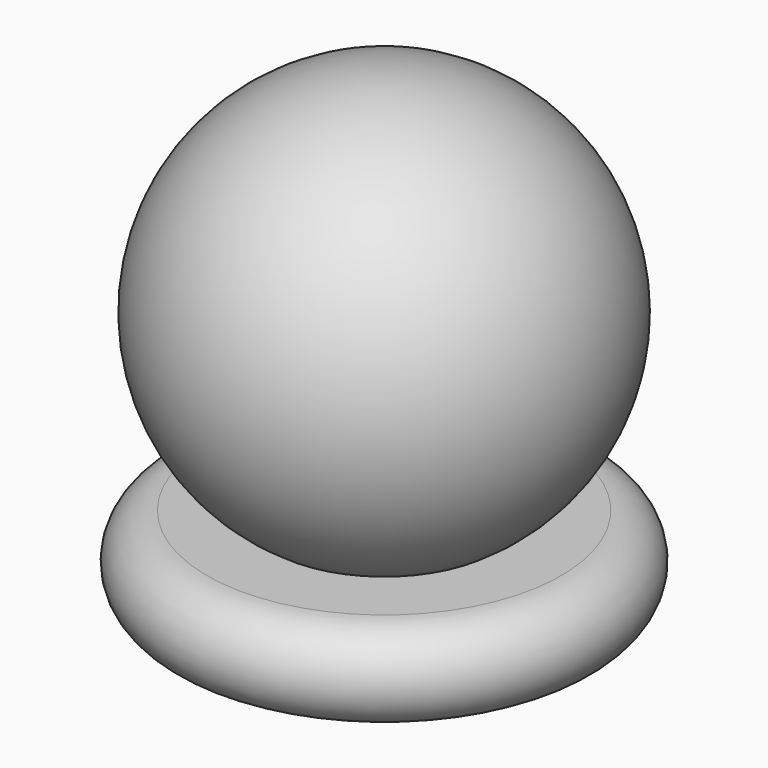
from build123d import *


with BuildPart() as f1:
    # F0 (on Front) → F1 (revolve)
    with BuildSketch(Plane.XZ):
        with BuildLine():
            Line((-4.4410675122, 3.5), (0, 3.5))
            Line((0, 3.5), (0, 18.6132244967))
            ThreePointArc((0, 18.6132244967), (-7.8761131806, 12.7185216609), (-4.4410675122, 3.5))
        make_face()
        with BuildLine():
            Line((-7, 0), (0, 0))
            Line((0, 0), (0, 2.1949786492))
            ThreePointArc((0, 2.1949786492), (-2.3144200879, 2.5279883923), (-4.4410675122, 3.5))
            Line((-4.4410675122, 3.5), (-7, 3.5))
            Line((-7, 3.5), (-7, 0))
        make_face()
        with BuildLine():
            ThreePointArc((-7, 3.5), (-8.75, 1.75), (-7, 0))
            Line((-7, 0), (-7, 3.5))
        make_face()
        with BuildLine():
            ThreePointArc((-4.4410675122, 3.5), (-2.3144200879, 2.5279883923), (0, 2.1949786492))
            Line((0, 2.1949786492), (0, 3.5))
            Line((0, 3.5), (-4.4410675122, 3.5))
        make_face()
    revolve(axis=Axis((0, 0, 9.3066122483), (0, 0, -1)))


solid = f1.part
